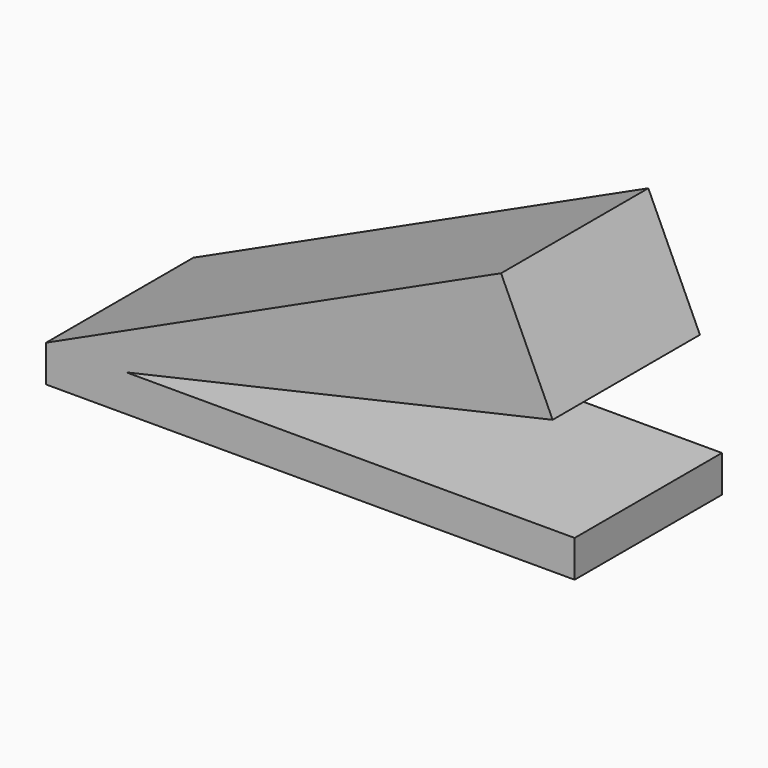
from build123d import *

# Parameters (mm, degrees)
F1_DEPTH = 25.4


with BuildPart() as f1:
    # F0 (on Front) → F1 (new body)
    with BuildSketch(Plane.XZ):
        Polygon((27.234169, 0), (-35.542898, -28.849749), (-24.464592, -28.849749), (34.351226, -15.48672), align=None)
        Polygon((-35.542898, -28.849749), (-35.542898, -33.927303), (37.389278, -33.927303), (37.389278, -28.849749), (-24.464592, -28.849749), align=None)
    extrude(amount=F1_DEPTH)


solid = f1.part
